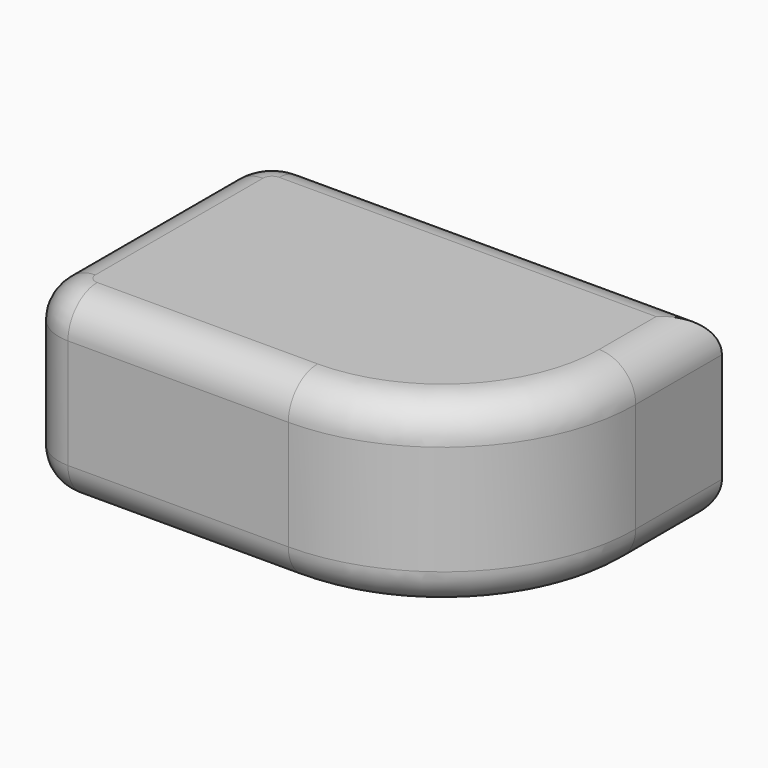
from build123d import *

# Parameters (mm, degrees)
F1_DEPTH = 25.4
F2_R     = 5.08
F3_R     = 5.08


with BuildPart() as f1:
    # F0 (on Top) → F1 (new body)
    with BuildSketch(Plane.XY):
        with BuildLine():
            Line((31.895727, 5.925444), (31.895727, 20.89718))
            Line((31.895727, 20.89718), (-25.545727, 20.89718))
            ThreePointArc((-25.545727, 20.89718), (-30.035855, 19.037308), (-31.895727, 14.54718))
            Line((-31.895727, 14.54718), (-31.895727, -14.54718))
            ThreePointArc((-31.895727, -14.54718), (-30.035855, -19.037308), (-25.545727, -20.89718))
            Line((-25.545727, -20.89718), (5.073103, -20.89718))
            ThreePointArc((5.073103, -20.89718), (24.039562, -13.041015), (31.895727, 5.925444))
        make_face()
    extrude(amount=F1_DEPTH)

    # F2
    f2_edges = [f1.edges().sort_by_distance(p)[0] for p in [
        (24.039562, -13.041015, 25.4),
        (31.895727, 13.411312, 25.4),
        (3.175, 20.89718, 25.4),
        (-30.035855, 19.037308, 25.4),
        (-31.895727, 0, 25.4),
        (-10.236312, -20.89718, 25.4),
        (-30.035855, -19.037308, 25.4),
    ]]
    fillet(f2_edges, radius=F2_R)

    # F3
    f3_edges = [f1.edges().sort_by_distance(p)[0] for p in [
        (3.175, 20.89718, 0),
        (31.895727, 13.411312, 0),
        (24.039562, -13.041015, 0),
        (-10.236312, -20.89718, 0),
        (-30.035855, -19.037308, 0),
        (-31.895727, 0, 0),
        (-30.035855, 19.037308, 0),
    ]]
    fillet(f3_edges, radius=F3_R)


solid = f1.part
